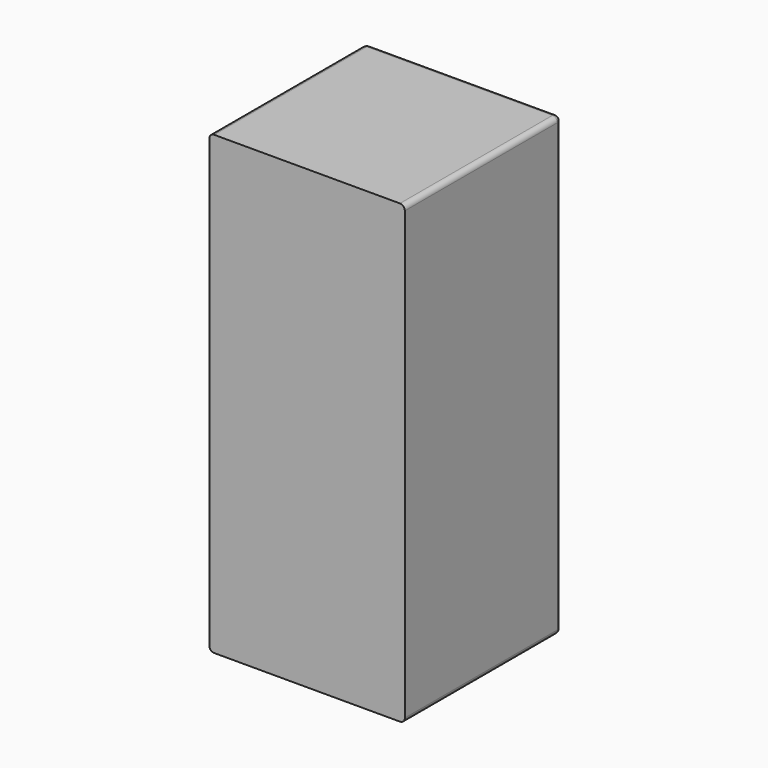
from build123d import *

# Parameters (mm, degrees)
F0_W     = 76.2
F0_H     = 177.8
F1_DEPTH = 76.2
F2_R     = 1.905


with BuildPart() as f1:
    # F0 (on Front) → F1 (new body)
    with BuildSketch(Plane.XZ):
        Rectangle(F0_W, F0_H)
    extrude(amount=-F1_DEPTH)

    # F2
    f2_edges = [f1.edges().sort_by_distance(p)[0] for p in [
        (0, 76.2, -88.9),
        (38.1, 76.2, 0),
        (0, 76.2, 88.9),
        (-38.1, 76.2, 0),
        (38.1, 38.1, 88.9),
        (-38.1, 38.1, 88.9),
        (38.1, 38.1, -88.9),
        (-38.1, 38.1, -88.9),
    ]]
    fillet(f2_edges, radius=F2_R)


solid = f1.part
